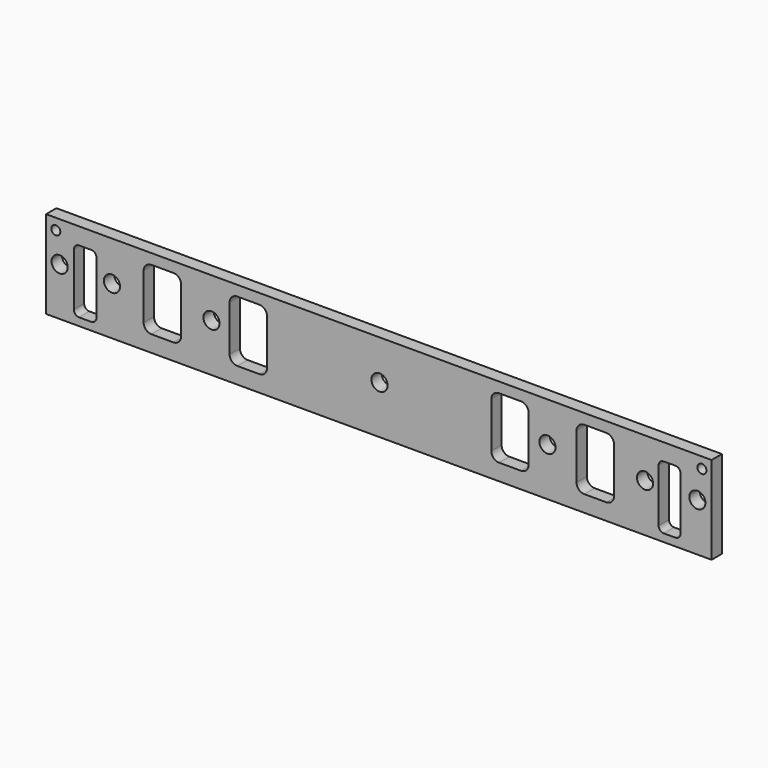
from build123d import *

# Parameters (mm, degrees)
F0_W     = 515
F0_H     = 68
F1_DEPTH = 10
F2_R     = 3.5
F2_R_2   = 6.25
F3_DEPTH = 10.001
F4_W     = 17.5
F4_H     = 49
F4_W_2   = 17
F5_DEPTH = 10.001
F4_W_3   = 29
F4_H_2   = 47.3
F6_DEPTH = 10.001
F7_R     = 4
F8_R     = 6


with BuildPart() as f1:
    # F0 (on Front) → F1 (new body)
    with BuildSketch(Plane.XZ):
        with Locations((257.5, -34)):
            Rectangle(F0_W, F0_H)
    extrude(amount=F1_DEPTH)

    # F2 (on face) → F3 (cut, through all)
    with BuildSketch(Plane.XZ.offset(10)):
        with Locations((7.5, -8.5)):
            Circle(F2_R)
        with Locations((507.5, -8.5)):
            Circle(F2_R)
        with Locations((10.5, -30.75)):
            Circle(F2_R_2)
        with Locations((51, -30.75)):
            Circle(F2_R_2)
        with Locations((128, -30.75)):
            Circle(F2_R_2)
        with Locations((258, -30.75)):
            Circle(F2_R_2)
        with Locations((388, -30.75)):
            Circle(F2_R_2)
        with Locations((463.5, -30.75)):
            Circle(F2_R_2)
        with Locations((504, -30.75)):
            Circle(F2_R_2)
    extrude(amount=-F3_DEPTH, mode=Mode.SUBTRACT)

    # F4 (on face) → F5 (cut, through all)
    with BuildSketch(Plane.XZ.offset(10)):
        with Locations((30.25, -37.5)):
            Rectangle(F4_W, F4_H)
        with Locations((482.5, -37.5)):
            Rectangle(F4_W_2, F4_H)
    extrude(amount=-F5_DEPTH, mode=Mode.SUBTRACT)

    # F4 (on face) → F6 (cut, through all)
    with BuildSketch(Plane.XZ.offset(10)):
        with Locations((90, -31.65)):
            Rectangle(F4_W_3, F4_H_2)
        with Locations((156.5, -31.65)):
            Rectangle(F4_W_3, F4_H_2)
        with Locations((359, -31.65)):
            Rectangle(F4_W_3, F4_H_2)
        with Locations((425, -31.65)):
            Rectangle(F4_W_3, F4_H_2)
    extrude(amount=-F6_DEPTH, mode=Mode.SUBTRACT)

    # F7
    f7_edges = [f1.edges().sort_by_distance(p)[0] for p in [
        (21.5, -5, -13),
        (21.5, -5, -62),
        (39, -5, -62),
        (39, -5, -13),
        (491, -5, -13),
        (474, -5, -13),
        (474, -5, -62),
        (491, -5, -62),
    ]]
    fillet(f7_edges, radius=F7_R)

    # F8
    f8_edges = [f1.edges().sort_by_distance(p)[0] for p in [
        (410.5, -5, -8),
        (439.5, -5, -8),
        (75.5, -5, -8),
        (104.5, -5, -8),
        (171, -5, -8),
        (75.5, -5, -55.3),
        (142, -5, -55.3),
        (142, -5, -8),
        (171, -5, -55.3),
        (104.5, -5, -55.3),
        (439.5, -5, -55.3),
        (373.5, -5, -55.3),
        (410.5, -5, -55.3),
        (344.5, -5, -55.3),
        (373.5, -5, -8),
        (344.5, -5, -8),
    ]]
    fillet(f8_edges, radius=F8_R)


solid = f1.part
